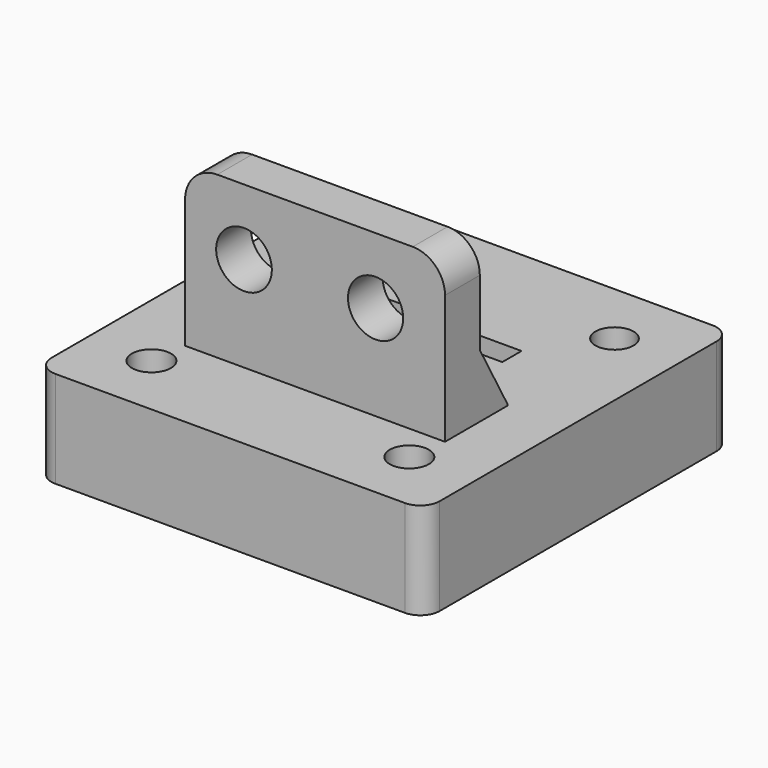
from build123d import *

# Parameters (mm, degrees)
SKETCH001_W     = 40.320626
SKETCH001_H     = 12.132678
PAD001_DEPTH    = 40
SKETCH002_R     = 4.317623
SKETCH002_R_2   = 4.284413
POCKET_DEPTH    = 20
POCKET001_DEPTH = 50
FILLET_R        = 5
FILLET001_R     = 5
SKETCH_W        = 60.214462
SKETCH_H        = 59.681602
SKETCH_R        = 3.142494
SKETCH_R_2      = 2.956232
SKETCH_R_3      = 3.035228
SKETCH_R_4      = 3.035232
SKETCH_W_2      = 9.236439
SKETCH_H_2      = 3.907723
SKETCH_W_3      = 9.946926
SKETCH_H_3      = 3.730095
PAD_DEPTH       = 15
FILLET002_R     = 3
FILLET003_R     = 3
FILLET004_R     = 3
FILLET005_R     = 3


with BuildPart() as fillet001:
    # Sketch001 → Pad001 (new body)
    with BuildSketch(Plane.XY):
        with Locations((30.822077, 21.642973)):
            Rectangle(SKETCH001_W, SKETCH001_H)
    extrude(amount=PAD001_DEPTH)

    # Sketch002 → Pocket (cut)
    with BuildSketch(Plane.XZ.offset(-15.576634)):
        with Locations((19.804171, 29.742664)):
            Circle(SKETCH002_R)
        with Locations((40.213741, 29.742664)):
            Circle(SKETCH002_R_2)
    extrude(amount=-POCKET_DEPTH, mode=Mode.SUBTRACT)

    # Sketch004 → Pocket001 (cut)
    with BuildSketch(Plane.YZ.offset(50.98239)):
        Polygon((28.077049, 14.53677), (22.323629, 24.785055), (22.323629, 47.259361), (55.765396, 45.281624), align=None)
    extrude(amount=-POCKET001_DEPTH, mode=Mode.SUBTRACT)

    # Fillet
    fillet_edges = [fillet001.edges().sort_by_distance(p)[0] for p in [
        (50.98239, 18.950131, 40),
    ]]
    fillet(fillet_edges, radius=FILLET_R)

    # Fillet001
    fillet001_edges = [fillet001.edges().sort_by_distance(p)[0] for p in [
        (10.661764, 18.950132, 40),
    ]]
    fillet(fillet001_edges, radius=FILLET001_R)


with BuildPart() as fillet005:
    # Sketch → Pad (new body)
    with BuildSketch(Plane.XY):
        with Locations((30.107231, 29.840801)):
            Rectangle(SKETCH_W, SKETCH_H)
        with Locations((10.124556, 49.557049)):
            Circle(SKETCH_R, mode=Mode.SUBTRACT)
        with Locations((50.089931, 49.557049)):
            Circle(SKETCH_R_2, mode=Mode.SUBTRACT)
        with Locations((9.946939, 9.946931)):
            Circle(SKETCH_R_3, mode=Mode.SUBTRACT)
        with Locations((50.089931, 9.769306)):
            Circle(SKETCH_R_4, mode=Mode.SUBTRACT)
        with Locations((22.735851, 38.544372)):
            Rectangle(SKETCH_W_2, SKETCH_H_2, mode=Mode.SUBTRACT)
        with Locations((38.366743, 38.100312)):
            Rectangle(SKETCH_W_3, SKETCH_H_3, mode=Mode.SUBTRACT)
    extrude(amount=PAD_DEPTH)

    # Fillet002
    fillet002_edges = [fillet005.edges().sort_by_distance(p)[0] for p in [
        (60.214462, 59.681602, 7.5),
    ]]
    fillet(fillet002_edges, radius=FILLET002_R)

    # Fillet003
    fillet003_edges = [fillet005.edges().sort_by_distance(p)[0] for p in [
        (60.214462, 0, 7.5),
    ]]
    fillet(fillet003_edges, radius=FILLET003_R)

    # Fillet004
    fillet004_edges = [fillet005.edges().sort_by_distance(p)[0] for p in [
        (0, 0, 7.5),
    ]]
    fillet(fillet004_edges, radius=FILLET004_R)

    # Fillet005
    fillet005_edges = [fillet005.edges().sort_by_distance(p)[0] for p in [
        (0, 59.681602, 7.5),
    ]]
    fillet(fillet005_edges, radius=FILLET005_R)


solid = Compound([fillet001.part, fillet005.part])
